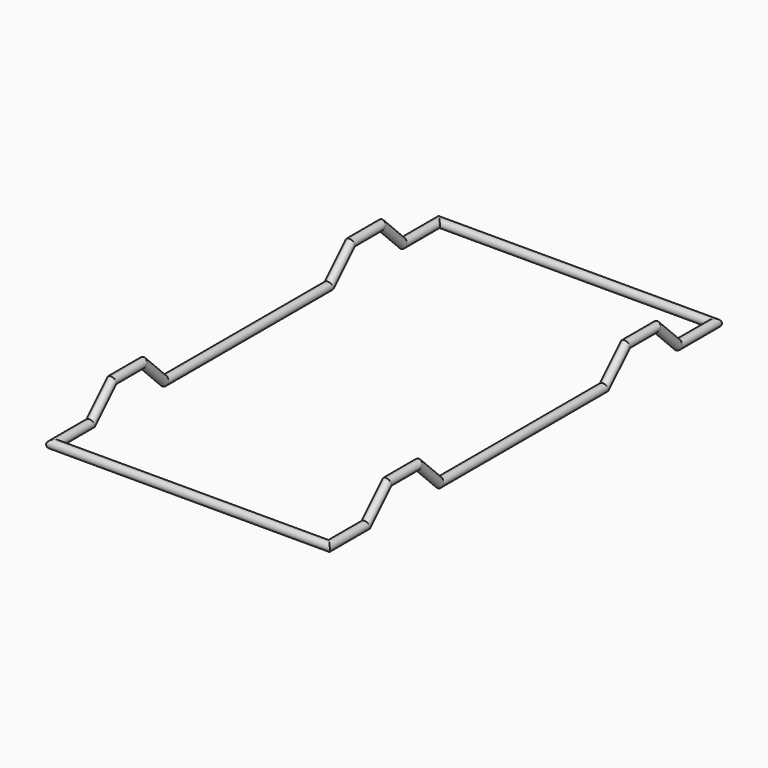
from build123d import *

# Parameters (mm, degrees)
F2_R = 19.05


with BuildPart() as f7:
    # F7: sweep along a path in F0, F4, F0, F4, F0, F6, F0, F6, F0
    with BuildLine(Plane.XY) as f7_path:
        Line((-609.6, 203.2), (-609.6, 0))
    with BuildLine(Plane.YZ.offset(-609.6)) as f7_path_2:
        Line((203.2, 0), (322.2318041258, 119.0318041258))
        Line((322.2318041258, 119.0318041258), (490.5681958742, 119.0318041258))
        Line((490.5681958742, 119.0318041258), (609.6, 0))
    with BuildLine(Plane.XY) as f7_path_3:
        Line((-609.6, 1524), (-609.6, 609.6))
    with BuildLine(Plane.YZ.offset(-609.6)) as f7_path_4:
        Line((1524, 0), (1643.0318041258, 119.0318041258))
        Line((1643.0318041258, 119.0318041258), (1811.3681958742, 119.0318041258))
        Line((1811.3681958742, 119.0318041258), (1930.4, 0))
        Line((1930.4, 0), (2133.6, 0))
    with BuildLine(Plane.XY) as f7_path_5:
        Line((-609.6, 2133.6), (609.6, 2133.6))
        Line((609.6, 2133.6), (609.6, 1930.4))
    with BuildLine(Plane.YZ.offset(609.6)) as f7_path_6:
        Line((1930.4, 0), (1811.3681958742, 119.0318041258))
        Line((1811.3681958742, 119.0318041258), (1643.0318041258, 119.0318041258))
        Line((1643.0318041258, 119.0318041258), (1524, 0))
    with BuildLine(Plane.XY) as f7_path_7:
        Line((609.6, 609.6), (609.6, 1524))
    with BuildLine(Plane.YZ.offset(609.6)) as f7_path_8:
        Line((609.6, 0), (490.5681958742, 119.0318041258))
        Line((490.5681958742, 119.0318041258), (322.2318041258, 119.0318041258))
        Line((322.2318041258, 119.0318041258), (203.2, 0))
    with BuildLine(Plane.XY) as f7_path_9:
        Line((609.6, 203.2), (609.6, 0))
        Line((609.6, 0), (-609.6, 0))
    # F2 (on plane+point) → F7 (sweep)
    with BuildSketch(Plane.XZ):
        with Locations((-609.6, 0)):
            Circle(F2_R)
    sweep(path=f7_path.line + f7_path_2.line + f7_path_3.line + f7_path_4.line + f7_path_5.line + f7_path_6.line + f7_path_7.line + f7_path_8.line + f7_path_9.line, transition=Transition.RIGHT)


solid = f7.part
